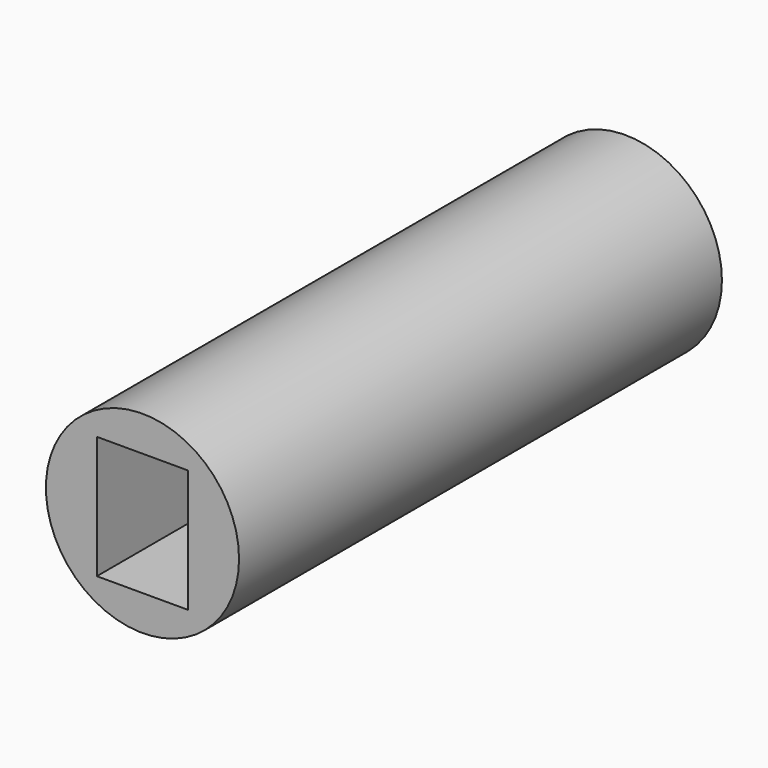
from build123d import *

# Parameters (mm, degrees)
F0_R     = 2.4
F1_DEPTH = 15
F2_W     = 2.267002
F2_H     = 3.049704
F3_DEPTH = 5


with BuildPart() as f1:
    # F0 (on Front) → F1 (new body)
    with BuildSketch(Plane.XZ):
        Circle(F0_R)
    extrude(amount=F1_DEPTH)

    # F2 (on face) → F3 (cut)
    with BuildSketch(Plane.XZ.offset(15)):
        Rectangle(F2_W, F2_H)
    extrude(amount=-F3_DEPTH, mode=Mode.SUBTRACT)


solid = f1.part
